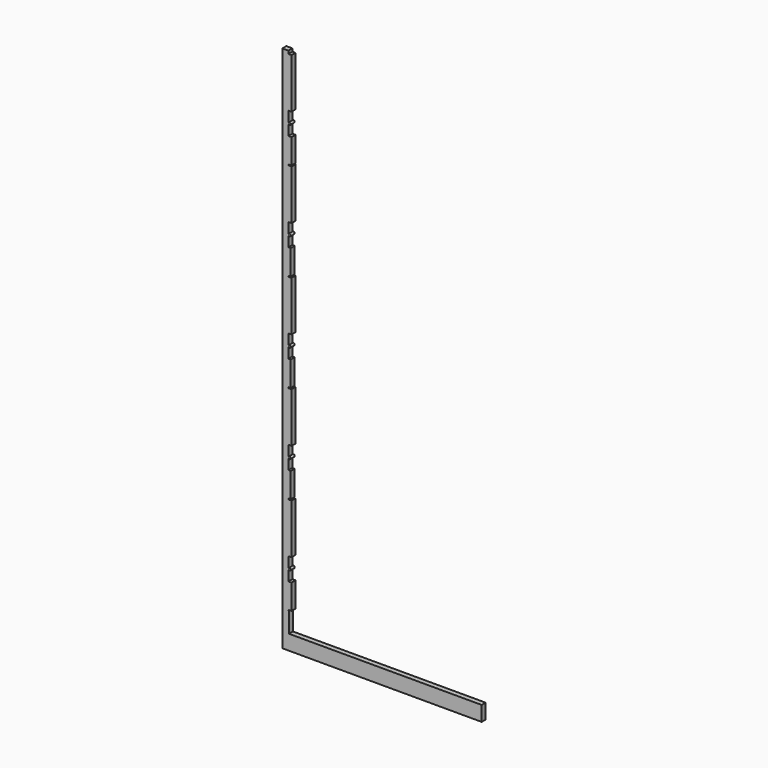
from build123d import *

# Parameters (mm, degrees)
F0_W     = 3
F0_H     = 100
F0_W_2   = 16
F0_H_2   = 125
F0_H_3   = 250
F0_W_3   = 12
F1_DEPTH = 25


with BuildPart() as f1:
    # F0 (on Front) → F1 (new body)
    with BuildSketch(Plane.XZ):
        Polygon((0, 2575), (0, 0), (30, 0), (30, 100), (30, 105), (30, 230), (30, 286), (30, 342), (30, 592), (30, 597), (30, 722), (30, 778), (30, 834), (30, 1084), (30, 1089), (30, 1214), (30, 1270), (30, 1326), (30, 1576), (30, 1581), (30, 1706), (30, 1762), (30, 1818), (30, 2068), (30, 2073), (30, 2198), (30, 2254), (30, 2310), (30, 2560), (30, 2575), align=None)
        with BuildLine():
            ThreePointArc((42, 2254), (36, 2260), (30, 2254))
            ThreePointArc((30, 2254), (36, 2248), (42, 2254))
        make_face()
        with BuildLine():
            ThreePointArc((42, 1762), (36, 1768), (30, 1762))
            ThreePointArc((30, 1762), (36, 1756), (42, 1762))
        make_face()
        with BuildLine():
            ThreePointArc((42, 1270), (36, 1276), (30, 1270))
            ThreePointArc((30, 1270), (36, 1264), (42, 1270))
        make_face()
        with BuildLine():
            ThreePointArc((42, 778), (36, 784), (30, 778))
            ThreePointArc((30, 778), (36, 772), (42, 778))
        make_face()
        with BuildLine():
            ThreePointArc((42, 286), (36, 292), (30, 286))
            ThreePointArc((30, 286), (36, 280), (42, 286))
        make_face()
        Polygon((30, 0), (0, 0), (0, -75), (1000, -75), (1000, 0), (33, 0), align=None)
        with Locations((31.5, 50)):
            Rectangle(F0_W, F0_H)
        with Locations((38, 167.5)):
            Rectangle(F0_W_2, F0_H_2)
        with Locations((38, 2435)):
            Rectangle(F0_W_2, F0_H_3)
        with Locations((38, 467)):
            Rectangle(F0_W_2, F0_H_3)
        with Locations((38, 2135.5)):
            Rectangle(F0_W_2, F0_H_2)
        with Locations((36, 659.5)):
            Rectangle(F0_W_3, F0_H_2)
        with Locations((38, 1943)):
            Rectangle(F0_W_2, F0_H_3)
        with Locations((38, 959)):
            Rectangle(F0_W_2, F0_H_3)
        with Locations((36, 1643.5)):
            Rectangle(F0_W_3, F0_H_2)
        with Locations((36, 1151.5)):
            Rectangle(F0_W_3, F0_H_2)
        with Locations((38, 1451)):
            Rectangle(F0_W_2, F0_H_3)
    extrude(amount=F1_DEPTH)


solid = f1.part
